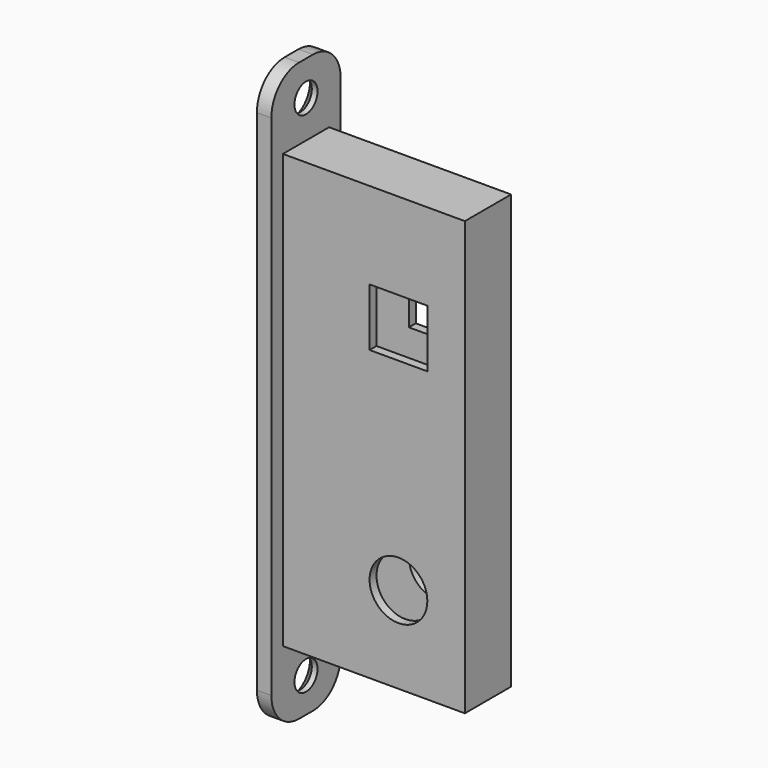
from build123d import *

# Parameters (mm, degrees)
F0_W     = 63
F0_H     = 150
F0_R     = 10
F0_W_2   = 20
F0_H_2   = 20
F1_DEPTH = 20
F2_T     = -3
F3_R     = 5
F4_DEPTH = 5
F5_SIZE  = 3


with BuildPart() as f1:
    # F0 (on Front) → F1 (new body)
    with BuildSketch(Plane.XZ):
        with Locations((-31.5, 75)):
            Rectangle(F0_W, F0_H)
        with Locations((-23, 30)):
            Circle(F0_R, mode=Mode.SUBTRACT)
        with Locations((-23, 110)):
            Rectangle(F0_W_2, F0_H_2, mode=Mode.SUBTRACT)
    extrude(amount=F1_DEPTH)

    # F2
    f2_openings = [f1.faces().sort_by_distance(p)[0] for p in [
        (-63, -10, 75),
        (-13, -10, 110),
        (-23, -10, 100),
        (-33, -10, 110),
        (-23, -10, 120),
        (-33, -10, 30),
    ]]
    offset(amount=F2_T, openings=f2_openings)

    # F3 (on face) → F4 (join)
    with BuildSketch(Plane(origin=(-63, 0, 0), x_dir=(0, -1, 0), z_dir=(-1, 0, 0))):
        with BuildLine():
            ThreePointArc((25, 163), (21.485281, 171.485281), (13, 175))
            Line((13, 175), (7, 175))
            ThreePointArc((7, 175), (-1.485281, 171.485281), (-5, 163))
            Line((-5, 163), (-5, -13))
            ThreePointArc((-5, -13), (-1.485281, -21.485281), (7, -25))
            Line((7, -25), (13, -25))
            ThreePointArc((13, -25), (21.485281, -21.485281), (25, -13))
            Line((25, -13), (25, 163))
        make_face()
        with Locations((10, -13)):
            Circle(F3_R, mode=Mode.SUBTRACT)
        with Locations((10, 163)):
            Circle(F3_R, mode=Mode.SUBTRACT)
    extrude(amount=F4_DEPTH)

    # F5
    f5_edges = [f1.edges().sort_by_distance(p)[0] for p in [
        (-68, -5, 163),
        (-68, -5, -13),
    ]]
    chamfer(f5_edges, length=F5_SIZE)


solid = f1.part
